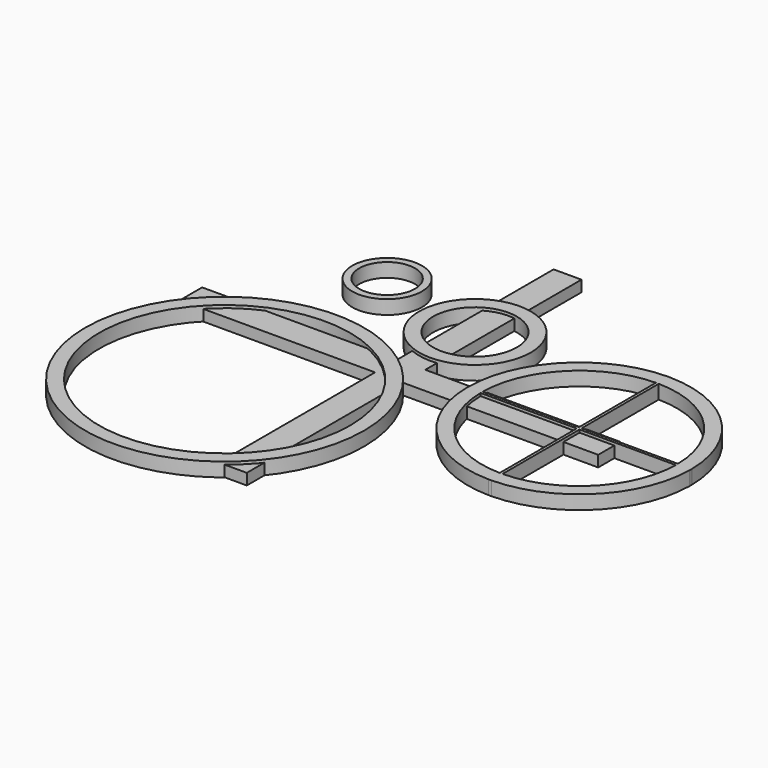
from build123d import *

# Parameters (mm, degrees)
F0_W     = 10
F0_H     = 70
F0_H_2   = 10
F0_W_2   = 70
F1_DEPTH = 4
F2_R     = 12.5
F2_R_2   = 10
F3_DEPTH = 5
F2_R_3   = 20
F2_R_4   = 15
F2_W     = 1
F2_H     = 1
F2_R_5   = 50
F2_R_6   = 45


with BuildPart() as f1:
    # F0 (on Top) → F1 (new body)
    with BuildSketch(Plane.XY):
        with Locations((0, 40)):
            Rectangle(F0_W, F0_H)
        Rectangle(F0_W, F0_H_2)
        with Locations((-40, 0)):
            Rectangle(F0_W_2, F0_H_2)
        with Locations((40, 0)):
            Rectangle(F0_W_2, F0_H_2)
        with Locations((0, -40)):
            Rectangle(F0_W, F0_H)
    extrude(amount=F1_DEPTH)


with BuildPart() as f3:
    # F2 (on Top) → F3 (new body)
    with BuildSketch(Plane.XY):
        with Locations((-36.7156490684, 40.033750236)):
            Circle(F2_R)
        with Locations((-36.7156490684, 40.033750236)):
            Circle(F2_R_2, mode=Mode.SUBTRACT)
    extrude(amount=F3_DEPTH)


with BuildPart() as f3b:
    # F2 (on Top) → F3, piece 2 (new body)
    with BuildSketch(Plane.XY):
        with Locations((2.7356152423, 30.1118772477)):
            Circle(F2_R_3)
        with Locations((2.7356152423, 30.1118772477)):
            Circle(F2_R_4, mode=Mode.SUBTRACT)
    extrude(amount=F3_DEPTH)


with BuildPart() as f3c:
    # F2 (on Top) → F3, piece 3 (new body)
    with BuildSketch(Plane.XY):
        with BuildLine():
            ThreePointArc((97.0270567127, 3.2086024638), (97.0297354095, 2.9586088419), (97.0306283236, 2.7086024638))
            ThreePointArc((97.0306283236, 2.7086024638), (97.0297354095, 2.4585960857), (97.0270567127, 2.2086024638))
            Line((97.0270567127, 2.2086024638), (102.0275032015, 2.2086024638))
            ThreePointArc((102.0275032015, 2.2086024638), (102.0298470354, 2.4585975807), (102.0306283236, 2.7086024638))
            ThreePointArc((102.0306283236, 2.7086024638), (102.0298470354, 2.958607347), (102.0275032015, 3.2086024638))
            Line((102.0275032015, 3.2086024638), (97.0270567127, 3.2086024638))
        make_face()
        with BuildLine():
            ThreePointArc((62.5306283236, 37.705030853), (86.7793656651, 27.4573398054), (97.0270567127, 3.2086024638))
            Line((97.0270567127, 3.2086024638), (102.0275032015, 3.2086024638))
            ThreePointArc((102.0275032015, 3.2086024638), (90.314899571, 30.9928737113), (62.5306283236, 42.7054773417))
            Line((62.5306283236, 42.7054773417), (62.5306283236, 37.705030853))
        make_face()
        with BuildLine():
            Line((102.0275032015, 2.2086024638), (97.0270567127, 2.2086024638))
            ThreePointArc((97.0270567127, 2.2086024638), (86.7793656651, -22.0401348777), (62.5306283236, -32.2878259254))
            Line((62.5306283236, -32.2878259254), (62.5306283236, -37.2882724141))
            ThreePointArc((62.5306283236, -37.2882724141), (90.314899571, -25.5756687836), (102.0275032015, 2.2086024638))
        make_face()
        with BuildLine():
            ThreePointArc((61.5306283236, 37.705030853), (62.0306283236, 37.7086024638), (62.5306283236, 37.705030853))
            Line((62.5306283236, 37.705030853), (62.5306283236, 42.7054773417))
            ThreePointArc((62.5306283236, 42.7054773417), (62.0306283236, 42.7086024638), (61.5306283236, 42.7054773417))
            Line((61.5306283236, 42.7054773417), (61.5306283236, 37.705030853))
        make_face()
        with BuildLine():
            Line((62.5306283236, -37.2882724141), (62.5306283236, -32.2878259254))
            ThreePointArc((62.5306283236, -32.2878259254), (62.0306283236, -32.2913975362), (61.5306283236, -32.2878259254))
            Line((61.5306283236, -32.2878259254), (61.5306283236, -37.2882724141))
            ThreePointArc((61.5306283236, -37.2882724141), (62.0306283236, -37.2913975362), (62.5306283236, -37.2882724141))
        make_face()
        with BuildLine():
            ThreePointArc((27.0341999344, 3.2086024638), (37.281890982, 27.4573398054), (61.5306283236, 37.705030853))
            Line((61.5306283236, 37.705030853), (61.5306283236, 42.7054773417))
            ThreePointArc((61.5306283236, 42.7054773417), (33.7463570761, 30.9928737113), (22.0337534456, 3.2086024638))
            Line((22.0337534456, 3.2086024638), (27.0341999344, 3.2086024638))
        make_face()
        with BuildLine():
            Line((61.5306283236, -37.2882724141), (61.5306283236, -32.2878259254))
            ThreePointArc((61.5306283236, -32.2878259254), (37.281890982, -22.0401348777), (27.0341999344, 2.2086024638))
            Line((27.0341999344, 2.2086024638), (22.0337534456, 2.2086024638))
            ThreePointArc((22.0337534456, 2.2086024638), (33.7463570761, -25.5756687836), (61.5306283236, -37.2882724141))
        make_face()
        with BuildLine():
            ThreePointArc((27.0341999344, 2.2086024638), (27.0306283236, 2.7086024638), (27.0341999344, 3.2086024638))
            Line((27.0341999344, 3.2086024638), (22.0337534456, 3.2086024638))
            ThreePointArc((22.0337534456, 3.2086024638), (22.0306283236, 2.7086024638), (22.0337534456, 2.2086024638))
            Line((22.0337534456, 2.2086024638), (27.0341999344, 2.2086024638))
        make_face()
        with BuildLine():
            Line((62.5306283236, 3.2086024638), (62.5306283236, 37.705030853))
            ThreePointArc((62.5306283236, 37.705030853), (62.0306283236, 37.7086024638), (61.5306283236, 37.705030853))
            Line((61.5306283236, 37.705030853), (61.5306283236, 3.2086024638))
            Line((61.5306283236, 3.2086024638), (62.5306283236, 3.2086024638))
        make_face()
        with BuildLine():
            Line((61.5306283236, 2.2086024638), (61.5306283236, 3.2086024638))
            Line((61.5306283236, 3.2086024638), (27.0341999344, 3.2086024638))
            ThreePointArc((27.0341999344, 3.2086024638), (27.0306283236, 2.7086024638), (27.0341999344, 2.2086024638))
            Line((27.0341999344, 2.2086024638), (61.5306283236, 2.2086024638))
        make_face()
        with BuildLine():
            ThreePointArc((97.0270567127, 2.2086024638), (97.0297354095, 2.4585960857), (97.0306283236, 2.7086024638))
            ThreePointArc((97.0306283236, 2.7086024638), (97.0297354095, 2.9586088419), (97.0270567127, 3.2086024638))
            Line((97.0270567127, 3.2086024638), (62.5306283236, 3.2086024638))
            Line((62.5306283236, 3.2086024638), (62.5306283236, 2.2086024638))
            Line((62.5306283236, 2.2086024638), (97.0270567127, 2.2086024638))
        make_face()
        with Locations((62.0306283236, 2.7086024638)):
            Rectangle(F2_W, F2_H)
        with BuildLine():
            ThreePointArc((61.5306283236, -32.2878259254), (62.0306283236, -32.2913975362), (62.5306283236, -32.2878259254))
            Line((62.5306283236, -32.2878259254), (62.5306283236, 2.2086024638))
            Line((62.5306283236, 2.2086024638), (61.5306283236, 2.2086024638))
            Line((61.5306283236, 2.2086024638), (61.5306283236, -32.2878259254))
        make_face()
    extrude(amount=F3_DEPTH)


with BuildPart() as f3d:
    # F2 (on Top) → F3, piece 4 (new body)
    with BuildSketch(Plane.XY):
        with Locations((-34.1170616448, -36.0339581966)):
            Circle(F2_R_5)
        with Locations((-34.1170616448, -36.0339581966)):
            Circle(F2_R_6, mode=Mode.SUBTRACT)
    extrude(amount=F3_DEPTH)


solid = Compound([f1.part, f3.part, f3b.part, f3c.part, f3d.part])
